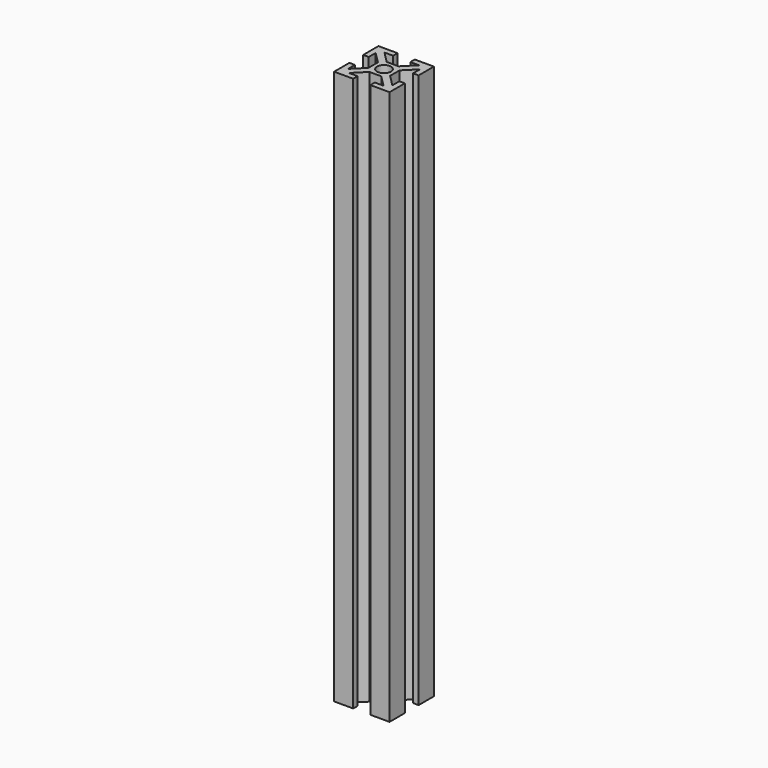
from build123d import *

# Parameters (mm, degrees)
SKETCH_W        = 20
SKETCH_H        = 20
PAD_DEPTH       = 300
SKETCH001_R     = 2.5
POCKET_DEPTH    = 300.001
POCKET001_DEPTH = 300.001
SKETCH003_W     = 20
SKETCH003_H     = 20
POCKET002_DEPTH = 100


with BuildPart() as part:
    # Sketch → Pad (new body)
    with BuildSketch(Plane.XY):
        Rectangle(SKETCH_W, SKETCH_H)
    extrude(amount=PAD_DEPTH)

    # Sketch001 (on Face6 of Pad) → Pocket (cut, through all)
    with BuildSketch(Plane.XY.offset(300)):
        Circle(SKETCH001_R)
        Polygon((-3.1, 10), (3.1, 10), (3.1, 8), (6.232233, 8), (2.132233, 3.9), (-2.132233, 3.9), (-6.232233, 8), (-3.1, 8), align=None)
        Polygon((-3.1, -8), (-6.232233, -8), (-2.132233, -3.9), (2.132233, -3.9), (6.232233, -8), (3.1, -8), (3.1, -10), (-3.1, -10), align=None)
    extrude(amount=-POCKET_DEPTH, mode=Mode.SUBTRACT)

    # Sketch002 (on Face2 of Pocket) → Pocket001 (cut, through all)
    with BuildSketch(Plane(origin=(0, 0, 0), x_dir=(1, 0, 0), z_dir=(0, 0, -1))):
        Polygon((-10, -3.1), (-8, -3.1), (-8, -6.232233), (-3.9, -2.132233), (-3.9, 2.132233), (-8, 6.232233), (-8, 3.1), (-10, 3.1), align=None)
        Polygon((3.9, -2.132233), (3.9, 2.132233), (8, 6.232233), (8, 3.1), (10, 3.1), (10, -3.1), (8, -3.1), (8, -6.232233), align=None)
    extrude(amount=-POCKET001_DEPTH, mode=Mode.SUBTRACT)

    # Sketch003 (on Face4 of Clone) → Pocket002 (cut)
    with BuildSketch(Plane.XY.offset(300)):
        Rectangle(SKETCH003_W, SKETCH003_H)
    extrude(amount=-POCKET002_DEPTH, mode=Mode.SUBTRACT)


solid = part.part
